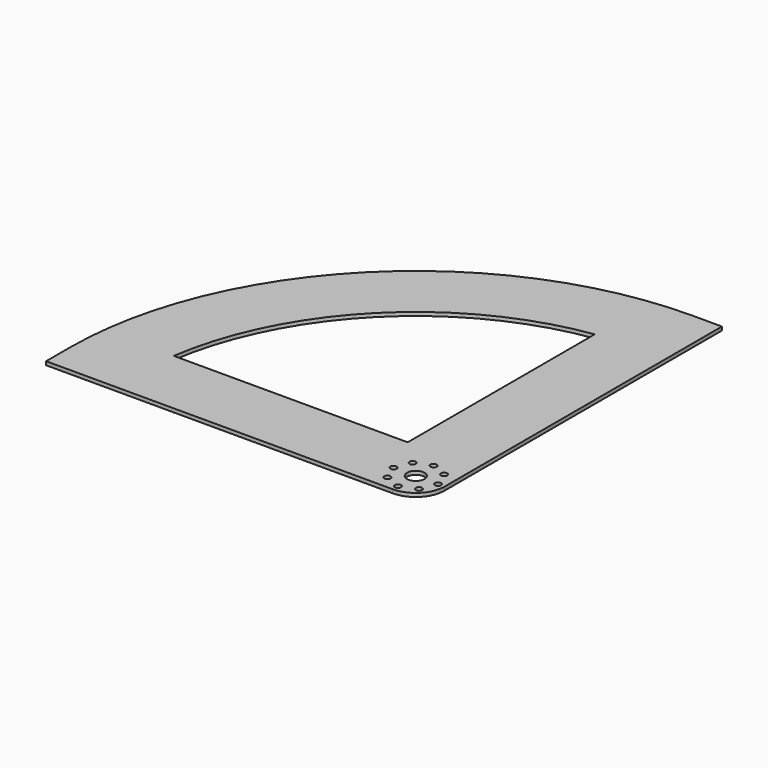
from build123d import *

# Parameters (mm, degrees)
F0_R     = 1.3589
F0_R_2   = 3.81
F1_DEPTH = 1.5875
F2_R     = 12.7


with BuildPart() as f1:
    # F0 (on Top) → F1 (new body)
    with BuildSketch(Plane.XY):
        with BuildLine():
            Line((0, 12.7), (0, 0))
            Line((0, 0), (165.1, 0))
            Line((165.1, 0), (165.1, 25.4))
            Line((165.1, 25.4), (165.1, 165.1))
            Line((165.1, 165.1), (164.819603, 165.1))
            Line((164.819603, 165.1), (152.119603, 165.099742))
            ThreePointArc((152.119603, 165.099742), (44.537837, 120.363893), (0, 12.7))
        make_face()
        with Locations((142.61465, 12.7)):
            Circle(F0_R, mode=Mode.SUBTRACT)
        with Locations((152.4, 2.91465)):
            Circle(F0_R, mode=Mode.SUBTRACT)
        with Locations((145.480713, 5.780713)):
            Circle(F0_R, mode=Mode.SUBTRACT)
        with Locations((159.319287, 5.780713)):
            Circle(F0_R, mode=Mode.SUBTRACT)
        with Locations((152.4, 12.7)):
            Circle(F0_R_2, mode=Mode.SUBTRACT)
        with Locations((145.480713, 19.619287)):
            Circle(F0_R, mode=Mode.SUBTRACT)
        with Locations((162.18535, 12.7)):
            Circle(F0_R, mode=Mode.SUBTRACT)
        with Locations((159.319287, 19.619287)):
            Circle(F0_R, mode=Mode.SUBTRACT)
        with Locations((152.4, 22.48535)):
            Circle(F0_R, mode=Mode.SUBTRACT)
        with BuildLine():
            ThreePointArc((31.783426, 30.48), (66.189541, 98.910459), (134.62, 133.316574))
            Line((134.62, 133.316574), (134.62, 30.48))
            Line((134.62, 30.48), (31.783426, 30.48))
        make_face(mode=Mode.SUBTRACT)
    extrude(amount=F1_DEPTH)

    # F2
    f2_edges = [f1.edges().sort_by_distance(p)[0] for p in [
        (165.1, 0, 0.79375),
    ]]
    fillet(f2_edges, radius=F2_R)


solid = f1.part
